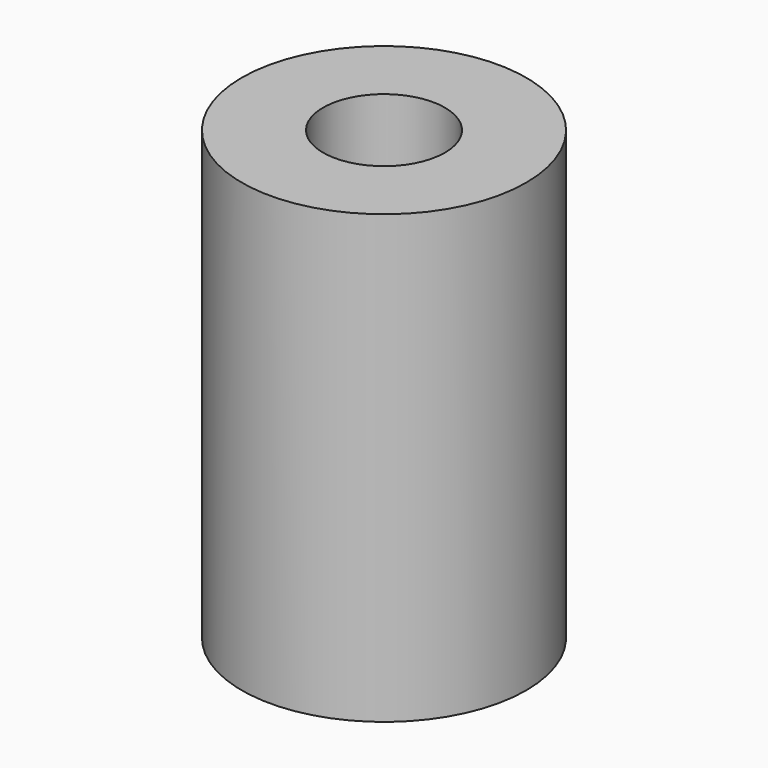
from build123d import *

# Parameters (mm, degrees)
SKETCH_R   = 3.5
SKETCH_R_2 = 1.5
PAD_DEPTH  = 11


with BuildPart() as part:
    # Sketch → Pad (new body)
    with BuildSketch(Plane.XY):
        Circle(SKETCH_R)
        Circle(SKETCH_R_2, mode=Mode.SUBTRACT)
    extrude(amount=PAD_DEPTH)


solid = part.part
